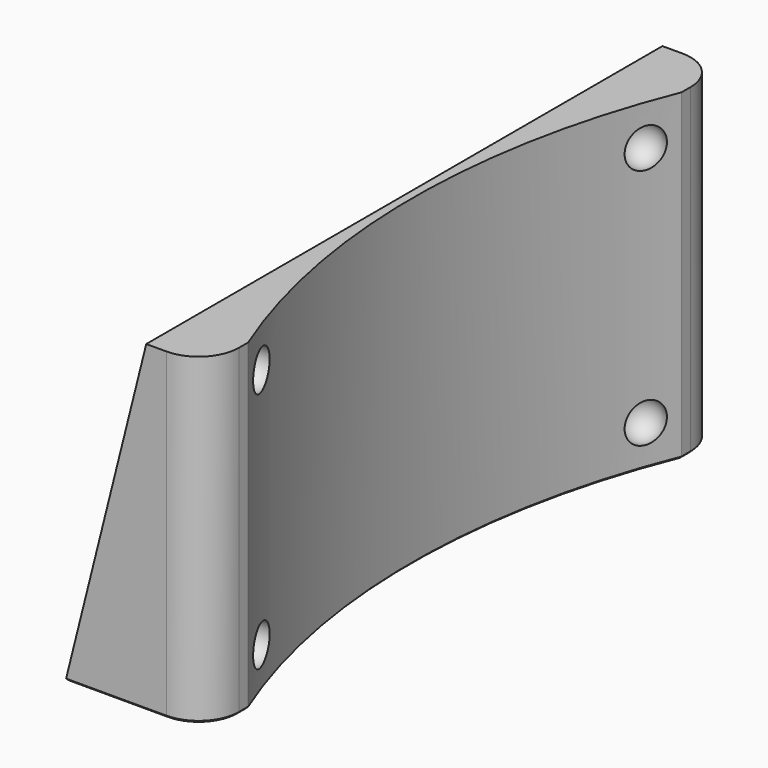
from build123d import *

# Parameters (mm, degrees)
PAD_DEPTH    = 160
SKETCH001_R  = 180
POCKET_DEPTH = 80.001
FILLET_R     = 10
CHAMFER_SIZE = 0.5


with BuildPart() as obj1:
    # Sphere002 → Sphere002 (revolve)
    with BuildSketch(Plane(origin=(31, -140, 10), x_dir=(1, 0, 0), z_dir=(0, -1, 0))):
        with BuildLine():
            ThreePointArc((0, -5), (5, 0), (0, 5))
            Line((0, 5), (0, -5))
        make_face()
    revolve(axis=Axis((31, -140, 10), (0, 0, 1)))


with BuildPart() as obj2:
    # Sphere003 → Sphere003 (revolve)
    with BuildSketch(Plane(origin=(31, -140, 70), x_dir=(1, 0, 0), z_dir=(0, -1, 0))):
        with BuildLine():
            ThreePointArc((0, -5), (5, 0), (0, 5))
            Line((0, 5), (0, -5))
        make_face()
    revolve(axis=Axis((31, -140, 70), (0, 0, 1)))


with BuildPart() as obj3:
    # Sphere001 → Sphere001 (revolve)
    with BuildSketch(Plane(origin=(31, -20, 70), x_dir=(1, 0, 0), z_dir=(0, -1, 0))):
        with BuildLine():
            ThreePointArc((0, -5), (5, 0), (0, 5))
            Line((0, 5), (0, -5))
        make_face()
    revolve(axis=Axis((31, -20, 70), (0, 0, 1)))


with BuildPart() as obj4:
    # Sphere → Sphere (revolve)
    with BuildSketch(Plane(origin=(31, -20, 10), x_dir=(1, 0, 0), z_dir=(0, -1, 0))):
        with BuildLine():
            ThreePointArc((0, -5), (5, 0), (0, 5))
            Line((0, 5), (0, -5))
        make_face()
    revolve(axis=Axis((31, -20, 10), (0, 0, 1)))


with BuildPart() as chamfer_body:
    # Sketch → Pad (new body)
    with BuildSketch(Plane.XZ):
        Polygon((0, 0), (35, 0), (35, 80), (20, 80), align=None)
    extrude(amount=PAD_DEPTH)

    # Sketch001 → Pocket (cut, through all)
    with BuildSketch(Plane(origin=(0, 0, 80), x_dir=(-1, 0, 0), z_dir=(0, 0, 1))):
        with Locations((-202, 80)):
            Circle(SKETCH001_R)
    extrude(amount=-POCKET_DEPTH, mode=Mode.SUBTRACT)

    # Fillet
    fillet_edges = [chamfer_body.edges().sort_by_distance(p)[0] for p in [
        (35, 0, 40),
        (35, -160, 40),
    ]]
    fillet(fillet_edges, radius=FILLET_R)

    # Cut: cut obj4
    add(obj4.part, mode=Mode.SUBTRACT)

    # Cut001: cut obj3
    add(obj3.part, mode=Mode.SUBTRACT)

    # Cut002: cut obj2
    add(obj2.part, mode=Mode.SUBTRACT)

    # Cut003: cut obj1
    add(obj1.part, mode=Mode.SUBTRACT)

    # Chamfer
    chamfer_edges = [chamfer_body.edges().sort_by_distance(p)[0] for p in [
        (12.5, 0, 0),
        (32.071068, -2.928932, 0),
        (0, -80, 0),
        (35, -11.418011, 0),
        (12.5, -160, 0),
        (25.279882, -45.794737, 0),
        (32.071068, -157.071068, 0),
        (25.279882, -114.205263, 0),
        (35, -148.581989, 0),
    ]]
    chamfer(chamfer_edges, length=CHAMFER_SIZE)


solid = chamfer_body.part
